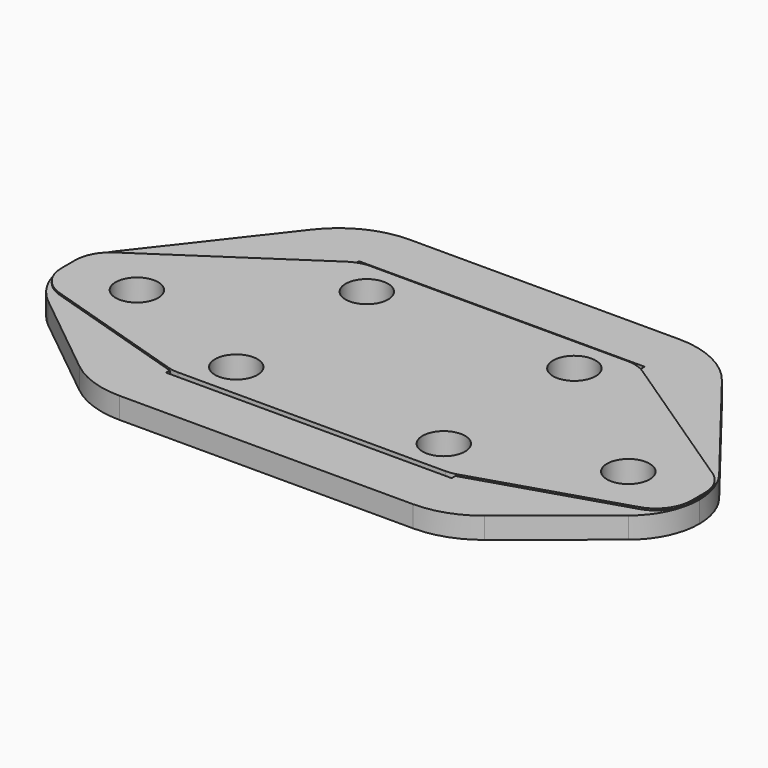
from build123d import *

# Parameters (mm, degrees)
F2_DEPTH = 1.3
F3_D     = 2.4
F4_R     = 2
F5_R     = 1.5
F5_W     = 16.1
F5_H     = 13.6
F6_DEPTH = 1.2
F7_R     = 5


with BuildPart() as f2:
    # F1 (on Top) → F2 (new body)
    with BuildSketch(Plane.XY):
        Polygon((15.7, 13.2), (0, 13.2), (-9.8972053856, 6.5830028616), (-9.8972053856, 3.1002506148), (0, 0), (15.7, 0), (25.5972053856, 3.1002506148), (25.5972053856, 6.5830028616), align=None)
    extrude(amount=F2_DEPTH)

    # F3 (through all)
    with Locations(Plane(origin=(0, 0, 0), x_dir=(1, 0, 0), z_dir=(0, 0, -1))):
        with Locations((13.7, -11.2), (2, -11.2), (-6, -5), (2, -2), (13.7, -2), (21.7, -5)):
            Hole(F3_D / 2)

    # F4
    f4_edges = [f2.edges().sort_by_distance(p)[0] for p in [
        (-9.897205, 3.100251, 0.65),
        (-9.897205, 6.583003, 0.65),
        (0, 13.2, 0.65),
        (0, 0, 0.65),
        (15.7, 0, 0.65),
        (25.597205, 3.100251, 0.65),
        (25.597205, 6.583003, 0.65),
        (15.7, 13.2, 0.65),
    ]]
    fillet(f4_edges, radius=F4_R)


with BuildPart() as f6:
    # F5 (on Top) → F6 (new body)
    with BuildSketch(Plane.XY):
        with BuildLine():
            ThreePointArc((-8.5100598753, 1.885582009), (-4.273767035, 1.3916596959), (-2, 5))
            ThreePointArc((-2, 5), (-4.7017515555, 8.7834575426), (-9.1572754882, 7.4559339347))
            ThreePointArc((-9.1572754882, 7.4559339347), (-9.9732704004, 4.5383482638), (-8.5100598753, 1.885582009))
        make_face()
        with Locations((-6, 5)):
            Circle(F5_R, mode=Mode.SUBTRACT)
        with BuildLine():
            ThreePointArc((-9.1572754882, 7.4559339347), (-4.7017515555, 8.7834575426), (-2, 5))
            ThreePointArc((-2, 5), (-4.273767035, 1.3916596959), (-8.5100598753, 1.885582009))
            Line((-8.5100598753, 1.885582009), (-2.2, -3.2))
            Line((-2.2, -3.2), (17.9, -3.2))
            Line((17.9, -3.2), (24.2100598753, 1.885582009))
            ThreePointArc((24.2100598753, 1.885582009), (17.7267295996, 5.4616517362), (24.8572754882, 7.4559339347))
            Line((24.8572754882, 7.4559339347), (17.9, 16.4))
            Line((17.9, 16.4), (-2.2, 16.4))
            Line((-2.2, 16.4), (-9.1572754882, 7.4559339347))
        make_face()
        with Locations((7.85, 6.6)):
            Rectangle(F5_W, F5_H, mode=Mode.SUBTRACT)
        with BuildLine():
            ThreePointArc((25.7, 5), (25.4834575426, 6.2982484445), (24.8572754882, 7.4559339347))
            ThreePointArc((24.8572754882, 7.4559339347), (17.7267295996, 5.4616517362), (24.2100598753, 1.885582009))
            ThreePointArc((24.2100598753, 1.885582009), (25.3083403041, 3.273767035), (25.7, 5))
        make_face()
        with Locations((21.7, 5)):
            Circle(F5_R, mode=Mode.SUBTRACT)
    extrude(amount=F6_DEPTH)

    # F7
    f7_edges = [f6.edges().sort_by_distance(p)[0] for p in [
        (-2.2, -3.2, 0.6),
        (17.9, -3.2, 0.6),
        (17.9, 16.4, 0.6),
        (-2.2, 16.4, 0.6),
    ]]
    fillet(f7_edges, radius=F7_R)


solid = Compound([f2.part, f6.part])
